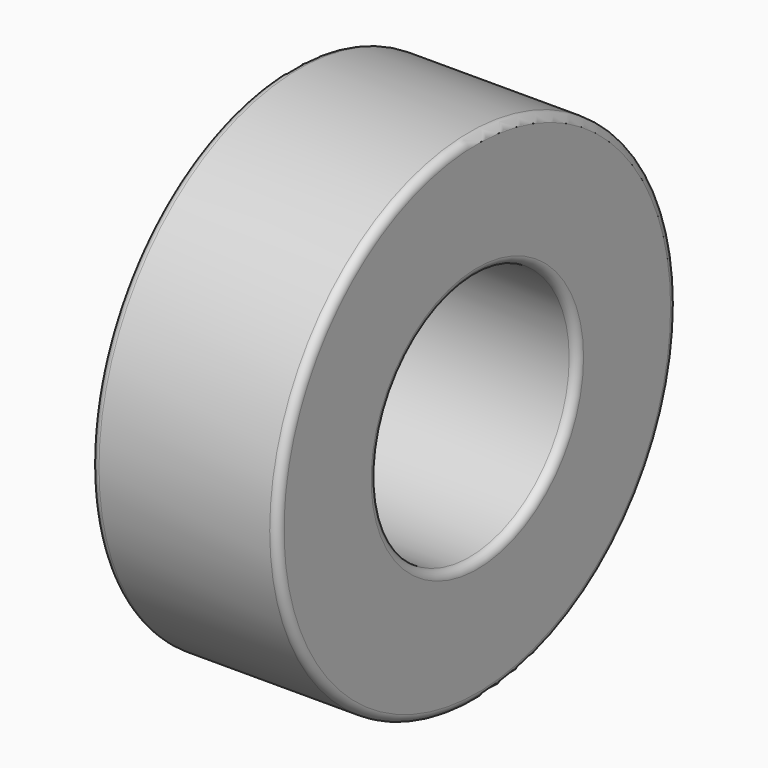
from build123d import *

# Parameters (mm, degrees)
F0_R     = 6.35
F0_R_2   = 3.175
F1_DEPTH = 2.3749
F2_R     = 0.2032
F3_R     = 0.2032
F4_R     = 0.2032
F5_R     = 0.2032


with BuildPart() as f1:
    # F0 (on Right) → F1 (new body, symmetric)
    with BuildSketch(Plane.YZ):
        Circle(F0_R)
        Circle(F0_R_2, mode=Mode.SUBTRACT)
    extrude(amount=F1_DEPTH, both=True)

    # F2
    f2_edges = [f1.edges().sort_by_distance(p)[0] for p in [
        (2.3749, -6.35, 0),
    ]]
    fillet(f2_edges, radius=F2_R)

    # F3
    f3_edges = [f1.edges().sort_by_distance(p)[0] for p in [
        (2.3749, -3.175, 0),
    ]]
    fillet(f3_edges, radius=F3_R)

    # F4
    f4_edges = [f1.edges().sort_by_distance(p)[0] for p in [
        (-2.3749, -6.35, 0),
    ]]
    fillet(f4_edges, radius=F4_R)

    # F5
    f5_edges = [f1.edges().sort_by_distance(p)[0] for p in [
        (-2.3749, -3.175, 0),
    ]]
    fillet(f5_edges, radius=F5_R)


solid = f1.part
